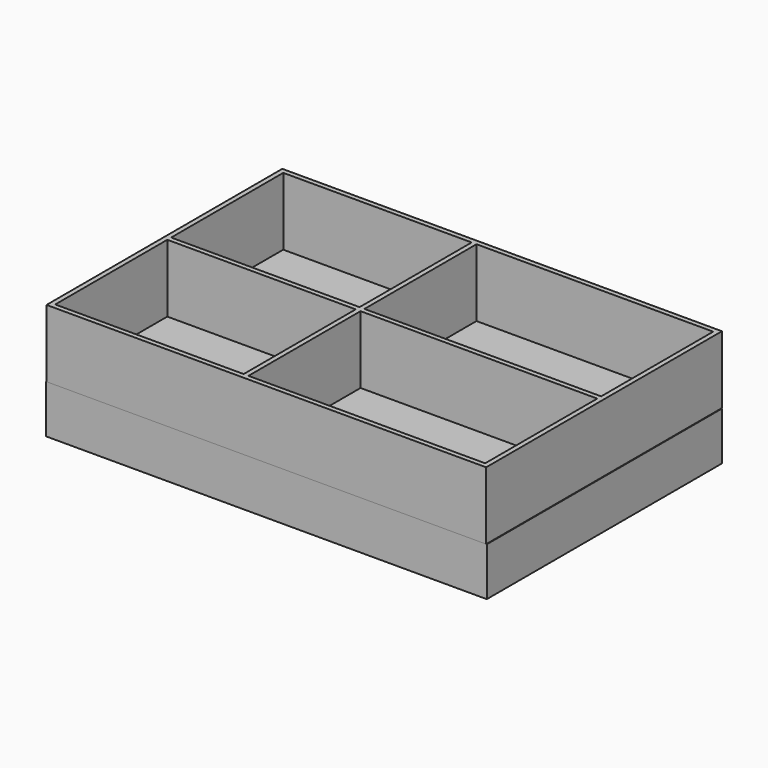
from build123d import *

# Parameters (mm, degrees)
F0_W     = 455
F0_H     = 305
F0_W_2   = 195
F0_H_2   = 145
F0_W_3   = 245
F1_DEPTH = 70
F2_W     = 456.144392
F2_H     = 304.169386
F3_DEPTH = 5
F4_W     = 456.144392
F4_H     = 304.169386
F4_W_2   = 446.144392
F4_H_2   = 294.169386
F5_DEPTH = 45


with BuildPart() as f1:
    # F0 (on Top) → F1 (new body)
    with BuildSketch(Plane.XY):
        with Locations((-2.477493, -2.5)):
            Rectangle(F0_W, F0_H)
        with Locations((-127.477493, -77.5)):
            Rectangle(F0_W_2, F0_H_2, mode=Mode.SUBTRACT)
        with Locations((97.522507, -77.5)):
            Rectangle(F0_W_3, F0_H_2, mode=Mode.SUBTRACT)
        with Locations((-127.477493, 72.5)):
            Rectangle(F0_W_2, F0_H_2, mode=Mode.SUBTRACT)
        with Locations((97.522507, 72.5)):
            Rectangle(F0_W_3, F0_H_2, mode=Mode.SUBTRACT)
    extrude(amount=F1_DEPTH)

    # F2 (on face) → F3 (join)
    with BuildSketch(Plane.XY):
        with Locations((-2.442673, -2.826333)):
            Rectangle(F2_W, F2_H)
    extrude(amount=-F3_DEPTH)

    # F4 (on face) → F5 (join)
    with BuildSketch(Plane(origin=(0, 0, -5), x_dir=(1, 0, 0), z_dir=(0, 0, -1))):
        with Locations((-2.442673, 2.826333)):
            Rectangle(F4_W, F4_H)
        with Locations((-2.442673, 2.826333)):
            Rectangle(F4_W_2, F4_H_2, mode=Mode.SUBTRACT)
    extrude(amount=F5_DEPTH)


solid = f1.part
